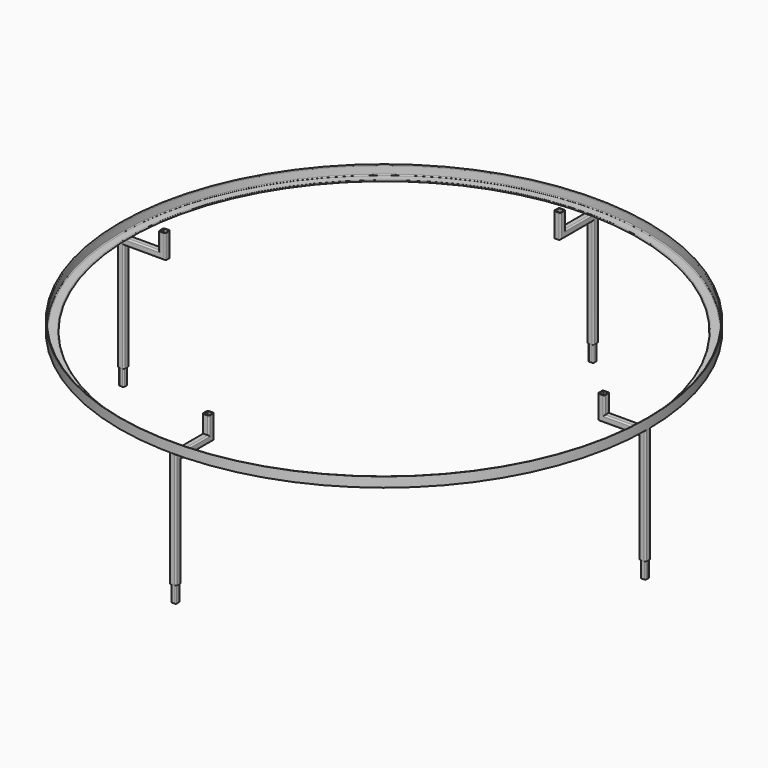
from build123d import *

# Parameters (mm, degrees)
F6_W           = 195
F6_H           = 40
F7_DEPTH       = 1620.001
F9_DEPTH       = 450
F11_DEPTH      = 100
F11_DEPTH_BACK = 100
F12_COUNT      = 4


with BuildPart() as f1:
    # F0 (on Front) → F1 (revolve)
    with BuildSketch(Plane.XZ):
        with BuildLine():
            ThreePointArc((1545, 5), (1541.4644660941, 3.5355339059), (1540, 0))
            Line((1540, 0), (1600, 0))
            Line((1600, 0), (1600, 60))
            ThreePointArc((1600, 60), (1596.4644660941, 58.5355339059), (1595, 55))
            Line((1595, 55), (1595, 10))
            ThreePointArc((1595, 10), (1593.5355339059, 6.4644660941), (1590, 5))
            Line((1590, 5), (1545, 5))
        make_face()
    revolve(axis=Axis((0, 0, 64.8235270174), (0, 0, 1)))


with BuildPart() as f5:
    # F5: sweep along a path in F2
    with BuildLine(Plane.YZ) as f5_path:
        Line((-1755, -270), (-1580, -270))
        Line((-1580, -270), (-1580, -20))
        Line((-1580, -20), (-1330, -20))
        Line((-1330, -20), (-1330, 105))
    # F4 (on plane+point) → F5 (sweep)
    with BuildSketch(Plane.XZ.offset(1755)):
        with BuildLine():
            Line((-12, -290), (12, -290))
            ThreePointArc((12, -290), (17.6568542495, -287.6568542495), (20, -282))
            Line((20, -282), (20, -258))
            ThreePointArc((20, -258), (17.6568542495, -252.3431457505), (12, -250))
            Line((12, -250), (-12, -250))
            ThreePointArc((-12, -250), (-17.6568542495, -252.3431457505), (-20, -258))
            Line((-20, -258), (-20, -282))
            ThreePointArc((-20, -282), (-17.6568542495, -287.6568542495), (-12, -290))
        make_face()
        with BuildLine():
            ThreePointArc((12, -254), (14.8284271247, -255.1715728753), (16, -258))
            Line((16, -258), (16, -282))
            ThreePointArc((16, -282), (14.8284271247, -284.8284271247), (12, -286))
            Line((12, -286), (-12, -286))
            ThreePointArc((-12, -286), (-14.8284271247, -284.8284271247), (-16, -282))
            Line((-16, -282), (-16, -258))
            ThreePointArc((-16, -258), (-14.8284271247, -255.1715728753), (-12, -254))
            Line((-12, -254), (12, -254))
        make_face(mode=Mode.SUBTRACT)
    sweep(path=f5_path.line, transition=Transition.RIGHT)

    # F6 (on face) → F7 (cut, through all)
    with BuildSketch(Plane(origin=(-20, 0, 0), x_dir=(0, -1, 0), z_dir=(-1, 0, 0))):
        with Locations((1657.5, -270)):
            Rectangle(F6_W, F6_H)
    extrude(amount=-F7_DEPTH, mode=Mode.SUBTRACT)

    # F8 (on face) → F9 (join)
    with BuildSketch(Plane(origin=(0, 0, -250), x_dir=(1, 0, 0), z_dir=(0, 0, -1))):
        with BuildLine():
            Line((20, 1568), (20, 1592))
            ThreePointArc((20, 1592), (17.6568542495, 1597.6568542495), (12, 1600))
            Line((12, 1600), (-12, 1600))
            ThreePointArc((-12, 1600), (-17.6568542495, 1597.6568542495), (-20, 1592))
            Line((-20, 1592), (-20, 1568))
            ThreePointArc((-20, 1568), (-17.6568542495, 1562.3431457505), (-12, 1560))
            Line((-12, 1560), (12, 1560))
            ThreePointArc((12, 1560), (17.6568542495, 1562.3431457505), (20, 1568))
        make_face()
        with BuildLine():
            ThreePointArc((-16, 1592), (-14.8284271247, 1594.8284271247), (-12, 1596))
            Line((-12, 1596), (12, 1596))
            ThreePointArc((12, 1596), (14.8284271247, 1594.8284271247), (16, 1592))
            Line((16, 1592), (16, 1568))
            ThreePointArc((16, 1568), (14.8284271247, 1565.1715728753), (12, 1564))
            Line((12, 1564), (-12, 1564))
            ThreePointArc((-12, 1564), (-14.8284271247, 1565.1715728753), (-16, 1568))
            Line((-16, 1568), (-16, 1592))
        make_face(mode=Mode.SUBTRACT)
    extrude(amount=F9_DEPTH)


with BuildPart() as f11:
    # F10 (on face) → F11 (new body, two sides)
    with BuildSketch(Plane(origin=(0, 0, -700), x_dir=(1, 0, 0), z_dir=(0, 0, -1))) as f11_sk:
        with BuildLine():
            Line((-9, 1565), (9, 1565))
            ThreePointArc((9, 1565), (13.2426406871, 1566.7573593129), (15, 1571))
            Line((15, 1571), (15, 1589))
            ThreePointArc((15, 1589), (13.2426406871, 1593.2426406871), (9, 1595))
            Line((9, 1595), (-9, 1595))
            ThreePointArc((-9, 1595), (-13.2426406871, 1593.2426406871), (-15, 1589))
            Line((-15, 1589), (-15, 1571))
            ThreePointArc((-15, 1571), (-13.2426406871, 1566.7573593129), (-9, 1565))
        make_face()
        with BuildLine():
            ThreePointArc((12, 1571), (11.1213203436, 1568.8786796564), (9, 1568))
            Line((9, 1568), (-9, 1568))
            ThreePointArc((-9, 1568), (-11.1213203436, 1568.8786796564), (-12, 1571))
            Line((-12, 1571), (-12, 1589))
            ThreePointArc((-12, 1589), (-11.1213203436, 1591.1213203436), (-9, 1592))
            Line((-9, 1592), (9, 1592))
            ThreePointArc((9, 1592), (11.1213203436, 1591.1213203436), (12, 1589))
            Line((12, 1589), (12, 1571))
        make_face(mode=Mode.SUBTRACT)
    extrude(amount=F11_DEPTH)
    extrude(f11_sk.sketch, amount=-F11_DEPTH_BACK)


with BuildPart() as f12_1:
    # F12: instance of F5
    add(f5.part.rotate(Axis((0, 0, 60), (0, 0, 1)), 1 * 360 / F12_COUNT))


with BuildPart() as f12_2:
    # F12: instance of F5
    add(f5.part.rotate(Axis((0, 0, 60), (0, 0, 1)), 2 * 360 / F12_COUNT))


with BuildPart() as f12_3:
    # F12: instance of F5
    add(f5.part.rotate(Axis((0, 0, 60), (0, 0, 1)), 3 * 360 / F12_COUNT))


with BuildPart() as f12_4:
    # F12: instance of F11
    add(f11.part.rotate(Axis((0, 0, 60), (0, 0, 1)), 1 * 360 / F12_COUNT))


with BuildPart() as f12_5:
    # F12: instance of F11
    add(f11.part.rotate(Axis((0, 0, 60), (0, 0, 1)), 2 * 360 / F12_COUNT))


with BuildPart() as f12_6:
    # F12: instance of F11
    add(f11.part.rotate(Axis((0, 0, 60), (0, 0, 1)), 3 * 360 / F12_COUNT))


solid = Compound([f1.part, f5.part, f11.part, f12_1.part, f12_2.part, f12_3.part, f12_4.part, f12_5.part, f12_6.part])
